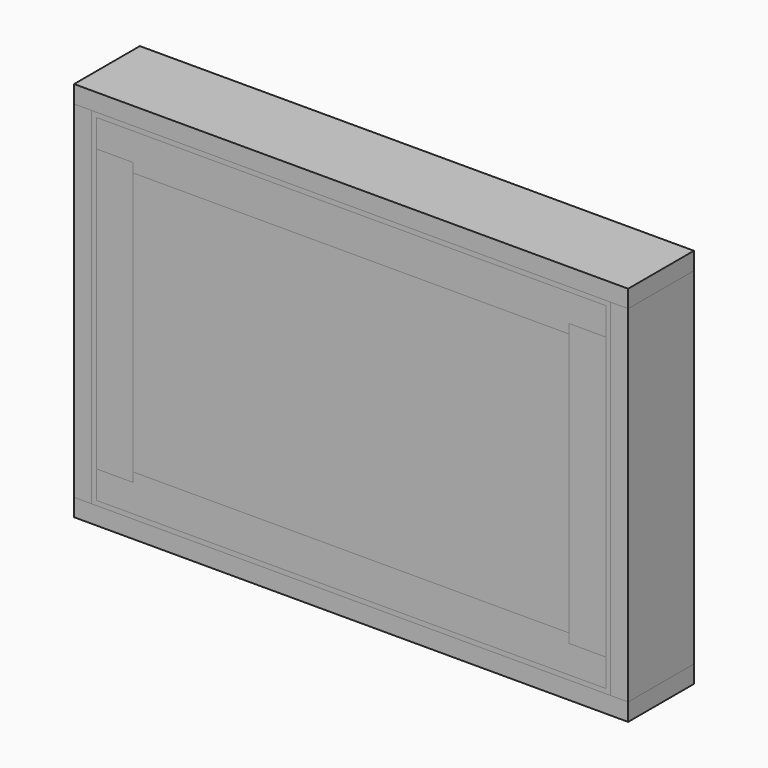
from build123d import *

# Parameters (mm, degrees)
F1_W      = 600
F1_H      = 413
F2_DEPTH  = 89
F4_DEPTH  = 89
F5_DEPTH  = 89
F3_W      = 19
F3_H      = 375
F6_DEPTH  = 89
F7_DEPTH  = 89
F10_DEPTH = 30
F11_DEPTH = 30
F12_DEPTH = 30
F13_DEPTH = 30
F15_W     = 482
F15_H     = 295
F16_DEPTH = 2.5
F17_W     = 562
F17_H     = 19
F18_DEPTH = 19
F20_W     = 19
F20_H     = 337
F21_DEPTH = 19


with BuildPart() as f2:
    # F1 (on Front) → F2 (new body)
    with BuildSketch(Plane.XZ):
        Rectangle(F1_W, F1_H)
    extrude(amount=-F2_DEPTH)


with BuildPart() as f4:
    # F3 (on face) → F4 (new body, through all)
    with BuildSketch(Plane.XZ):
        Polygon((-300, -187.5), (-300, -206.5), (300, -206.5), (300, -187.5), (281, -187.5), (-281, -187.5), align=None)
    extrude(amount=-F4_DEPTH)


with BuildPart() as f5:
    # F3 (on face) → F5 (new body, through all)
    with BuildSketch(Plane.XZ):
        Polygon((-300, 206.5), (-300, 187.5), (-281, 187.5), (281, 187.5), (300, 187.5), (300, 206.5), align=None)
    extrude(amount=-F5_DEPTH)


with BuildPart() as f6:
    # F3 (on face) → F6 (new body, through all)
    with BuildSketch(Plane.XZ):
        with Locations((-290.5, 0)):
            Rectangle(F3_W, F3_H)
    extrude(amount=-F6_DEPTH)


with BuildPart() as f7:
    # F3 (on face) → F7 (new body, through all)
    with BuildSketch(Plane.XZ):
        with Locations((290.5, 0)):
            Rectangle(F3_W, F3_H)
    extrude(amount=-F7_DEPTH)


with BuildPart() as f10:
    # F9 (on offset) → F10 (new body)
    with BuildSketch(Plane.XZ):
        Polygon((276, 182.5), (-276, 182.5), (-276, 152.5), (-236, 152.5), (-236, 142.5), (236, 142.5), (236, 152.5), (276, 152.5), align=None)
    extrude(amount=-F10_DEPTH)


with BuildPart() as f11:
    # F9 (on offset) → F11 (new body)
    with BuildSketch(Plane.XZ):
        Polygon((-236, -152.5), (-276, -152.5), (-276, -182.5), (276, -182.5), (276, -152.5), (236, -152.5), (236, -142.5), (-236, -142.5), align=None)
    extrude(amount=-F11_DEPTH)


with BuildPart() as f12:
    # F9 (on offset) → F12 (new body)
    with BuildSketch(Plane.XZ):
        Polygon((-236, 152.5), (-276, 152.5), (-276, -152.5), (-236, -152.5), (-236, -142.5), (-236, 142.5), align=None)
    extrude(amount=-F12_DEPTH)


with BuildPart() as f13:
    # F9 (on offset) → F13 (new body)
    with BuildSketch(Plane.XZ):
        Polygon((276, -152.5), (276, 152.5), (236, 152.5), (236, 142.5), (236, -142.5), (236, -152.5), align=None)
    extrude(amount=-F13_DEPTH)


with BuildPart() as f16:
    # F15 (on offset) → F16 (new body, symmetric)
    with BuildSketch(Plane.XZ.offset(-15)):
        Rectangle(F15_W, F15_H)
    extrude(amount=F16_DEPTH, both=True)


with BuildPart() as f18:
    # F17 (on face) → F18 (new body)
    with BuildSketch(Plane.XY.offset(-187.5)):
        with Locations((0, 39.5)):
            Rectangle(F17_W, F17_H)
    extrude(amount=F18_DEPTH)


with BuildPart() as f19_1:
    # F19: instance of F18
    add(f18.part.mirror(Plane.XY))


with BuildPart() as f21:
    # F20 (on face) → F21 (new body)
    with BuildSketch(Plane.YZ.offset(-281)):
        with Locations((39.5, 0)):
            Rectangle(F20_W, F20_H)
    extrude(amount=F21_DEPTH)


with BuildPart() as f22_1:
    # F22: instance of F21
    add(f21.part.mirror(Plane.YZ))


solid = Compound([f2.part, f4.part, f5.part, f6.part, f7.part, f10.part, f11.part, f12.part, f13.part, f16.part, f18.part, f19_1.part, f21.part, f22_1.part])
